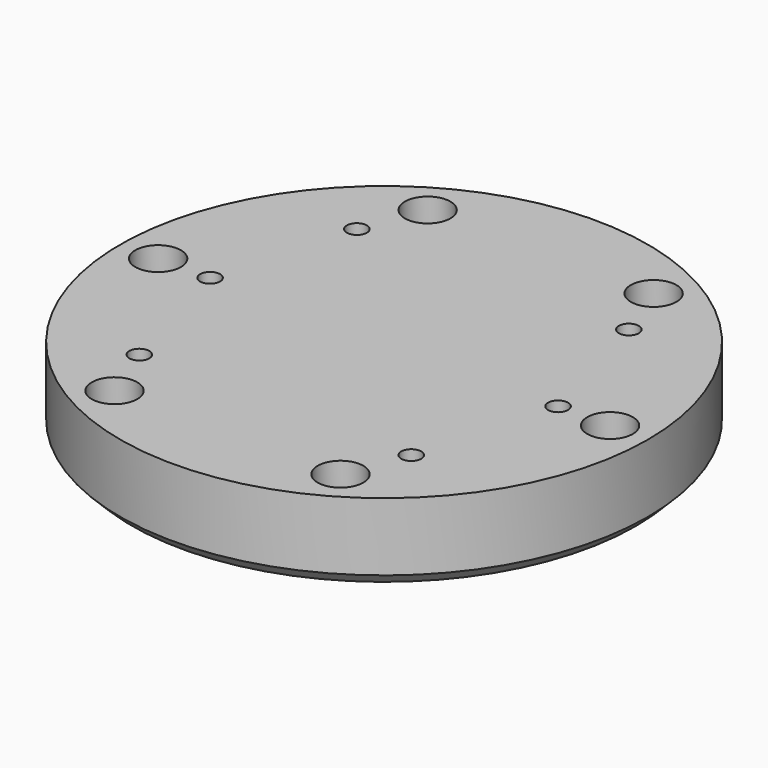
from build123d import *

# Parameters (mm, degrees)
SKETCH003_R           = 33
PAD_DEPTH             = 10
CHAMFER_SIZE          = 1.5
SKETCH_R              = 1.6
POCKET_DEPTH          = 197.745507
POLARPATTERN_COUNT    = 6
SKETCH001_R           = 2.85
POCKET001_DEPTH       = 3.25
POLARPATTERN001_COUNT = 6
SKETCH002_R           = 1.25
POCKET002_DEPTH       = 10.001
SKETCH004_R           = 1.25
POCKET003_DEPTH       = 10.001


with BuildPart() as part:
    # Sketch003 → Pad (new body)
    with BuildSketch(Plane.XY):
        Circle(SKETCH003_R)
    extrude(amount=PAD_DEPTH)

    # Chamfer
    chamfer_edges = [part.edges().sort_by_distance(p)[0] for p in [
        (-33, 0, 0),
    ]]
    chamfer(chamfer_edges, length=CHAMFER_SIZE)

    # Sketch → Pocket (cut, through all)
    with BuildSketch(Plane.XY.offset(10)):
        with Locations((-28.25, 0)):
            Circle(SKETCH_R)
    pocket = extrude(amount=-POCKET_DEPTH, mode=Mode.SUBTRACT)

    # PolarPattern: Pocket ×6 about axis
    polarpattern_axis = Axis((0, 0, 10), (0, 0, 1))
    for i in range(1, POLARPATTERN_COUNT):
        add(pocket.rotate(polarpattern_axis, i * 360 / POLARPATTERN_COUNT), mode=Mode.SUBTRACT)

    # Sketch001 → Pocket001 (cut)
    with BuildSketch(Plane.XY.offset(10)):
        with Locations((14.125, 24.465218)):
            Circle(SKETCH001_R)
    pocket001 = extrude(amount=-POCKET001_DEPTH, mode=Mode.SUBTRACT)

    # PolarPattern001: Pocket001 ×6 about axis
    polarpattern001_axis = Axis((0, 0, 10), (0, 0, 1))
    for i in range(1, POLARPATTERN001_COUNT):
        add(pocket001.rotate(polarpattern001_axis, i * 360 / POLARPATTERN001_COUNT), mode=Mode.SUBTRACT)

    # Sketch002 → Pocket002 (cut, through all)
    with BuildSketch(Plane.XY.offset(10)):
        with Locations((-17, 17)):
            Circle(SKETCH002_R)
        with Locations((17, 17)):
            Circle(SKETCH002_R)
        with Locations((-17, -17)):
            Circle(SKETCH002_R)
        with Locations((17, -17)):
            Circle(SKETCH002_R)
    extrude(amount=-POCKET002_DEPTH, mode=Mode.SUBTRACT)

    # Sketch004 → Pocket003 (cut, through all)
    with BuildSketch(Plane.XY.offset(10)):
        with Locations((-21.75, 0)):
            Circle(SKETCH004_R)
        with Locations((21.75, 0)):
            Circle(SKETCH004_R)
    extrude(amount=-POCKET003_DEPTH, mode=Mode.SUBTRACT)


solid = part.part
